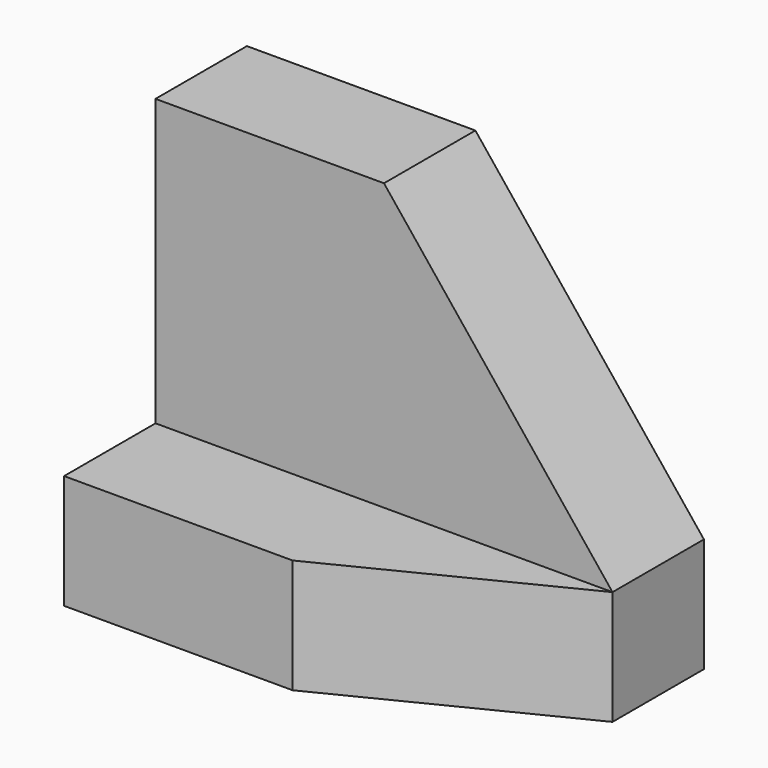
from build123d import *

# Parameters (mm, degrees)
F1_DEPTH = 12.7
F2_W     = 50.8
F2_H     = 12.7
F3_DEPTH = 12.7
F5_DEPTH = 25.4


with BuildPart() as f1:
    # F0 (on Front) → F1 (new body)
    with BuildSketch(Plane.XZ):
        Polygon((0, 44.45), (0, 0), (50.8, 0), (50.8, 12.7), (25.4, 44.45), align=None)
    extrude(amount=F1_DEPTH)

    # F2 (on face) → F3 (join)
    with BuildSketch(Plane.XZ.offset(12.7)):
        with Locations((25.4, 6.35)):
            Rectangle(F2_W, F2_H)
    extrude(amount=F3_DEPTH)

    # F4 (on face) → F5 (cut)
    with BuildSketch(Plane.XY.offset(12.7)):
        Polygon((50.8, -12.7), (25.4, -25.4), (50.8, -25.4), align=None)
    extrude(amount=-F5_DEPTH, mode=Mode.SUBTRACT)


solid = f1.part
